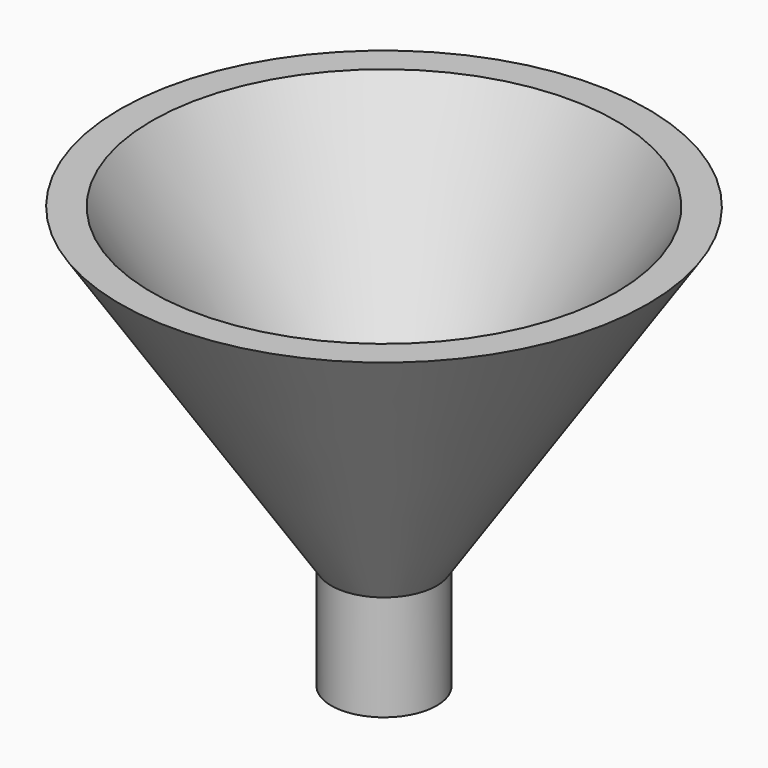
from build123d import *

# Parameters (mm, degrees)
CYLINDER001_R     = 3
CYLINDER001_DEPTH = 10
CYLINDER_R        = 5
CYLINDER_DEPTH    = 10


with BuildPart() as cono001:
    # Cone001 → Cone001 (revolve)
    with BuildSketch(Plane.XZ):
        Polygon((0, 0), (3, 0), (22, 30), (0, 30), align=None)
    revolve(axis=Axis((0, 0, 0), (0, 0, 1)))


with BuildPart() as cut:
    # Cone → Cone (revolve)
    with BuildSketch(Plane.XZ):
        Polygon((0, 0), (5, 0), (25, 30), (0, 30), align=None)
    revolve(axis=Axis((0, 0, 0), (0, 0, 1)))

    # Cut: cut Cono001
    add(cono001.part, mode=Mode.SUBTRACT)


with BuildPart() as cilindro001:
    # Cylinder001 → Cylinder001 (new body)
    with BuildSketch(Plane.XY.offset(-10)):
        Circle(CYLINDER001_R)
    extrude(amount=CYLINDER001_DEPTH)


with BuildPart() as cut001:
    # Cylinder → Cylinder (new body)
    with BuildSketch(Plane.XY.offset(-10)):
        Circle(CYLINDER_R)
    extrude(amount=CYLINDER_DEPTH)

    # Cut001: cut Cilindro001
    add(cilindro001.part, mode=Mode.SUBTRACT)


solid = Compound([cut.part, cut001.part])
